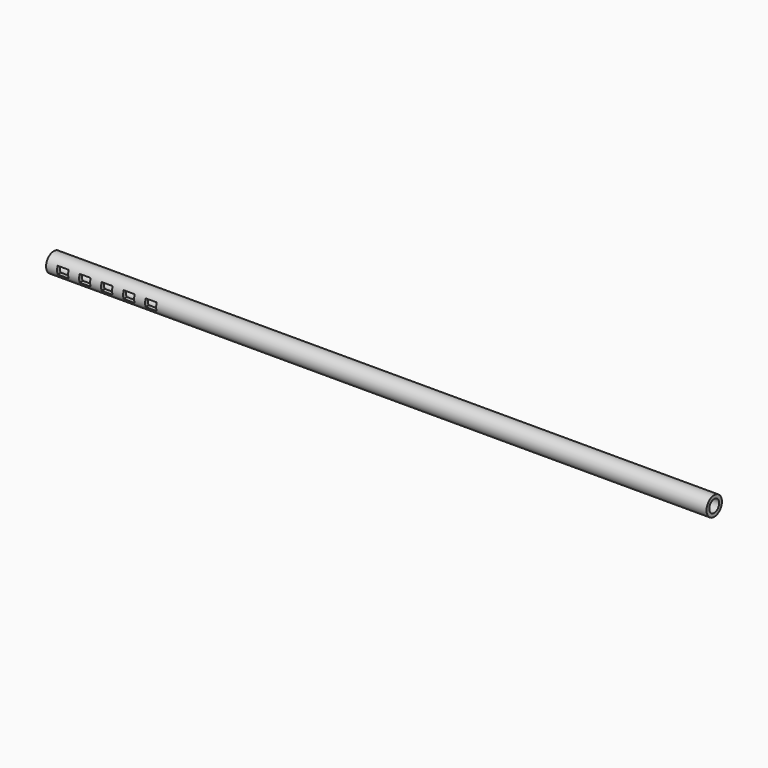
from build123d import *

# Parameters (mm, degrees)
F0_R          = 4.445
F0_R_2        = 2.8448
F1_DEPTH      = 12.7
F2_DEPTH      = 304.8
F4_DEPTH      = 25.4
F4_DEPTH_BACK = 25.4


with BuildPart() as f1:
    # F0 (on Right) → F1 (new body)
    with BuildSketch(Plane.YZ):
        Circle(F0_R)
        Circle(F0_R_2, mode=Mode.SUBTRACT)
    extrude(amount=-F1_DEPTH)

    # F0 (on Right) → F2 (join)
    with BuildSketch(Plane.YZ):
        Circle(F0_R)
        Circle(F0_R_2, mode=Mode.SUBTRACT)
    extrude(amount=-F2_DEPTH)

    # F3 (on Front) → F4 (cut, two sides)
    with BuildSketch(Plane.XZ) as f4_sk:
        Polygon((-253.9987727039, -0.0183600185), (-259.0788954335, -0.0148181376), (-259.0788954335, -1.7928185265), (-254.0000123471, -1.7963595863), align=None)
        Polygon((-259.0788954335, 1.7631822513), (-259.0788954335, -0.0148181376), (-253.9987727039, -0.0183600185), (-253.9975330607, 1.7596395494), align=None)
        Polygon((-269.2391408927, 1.7702659267), (-269.2391408927, -0.0077343758), (-264.1590181631, -0.0112762567), (-264.1590181631, 1.766724089), align=None)
        Polygon((-264.1590181631, -0.0112762567), (-269.2391408927, -0.0077343758), (-269.2391408927, -1.7857346783), (-264.1590181631, -1.7892766024), align=None)
        Polygon((-279.3993863519, 1.7773496021), (-279.3993863519, -0.000650614), (-274.3192636223, -0.0041924949), (-274.3192636223, 1.7738077644), align=None)
        Polygon((-274.3192636223, -0.0041924949), (-279.3993863519, -0.000650614), (-279.3993863519, -1.7786508301), (-274.3192636223, -1.7821927542), align=None)
        Polygon((-284.4795090815, 0.0028912669), (-289.5596318112, 0.0064331478), (-289.5608714541, -1.7715661175), (-284.4807487246, -1.7751080416), align=None)
        Polygon((-289.5583921682, 1.7844324132), (-289.5596318112, 0.0064331478), (-284.4795090815, 0.0028912669), (-284.4782694385, 1.7808905755), align=None)
        Polygon((-294.6397545408, 0.0099750287), (-299.7198772704, 0.0135169096), (-299.7198772704, -1.7644831336), (-294.6409941837, -1.7680241934), align=None)
        Polygon((-299.7198772704, 1.7915169528), (-299.7198772704, 0.0135169096), (-294.6397545408, 0.0099750287), (-294.6385148978, 1.7879742509), align=None)
    extrude(amount=-F4_DEPTH, mode=Mode.SUBTRACT)
    extrude(f4_sk.sketch, amount=F4_DEPTH_BACK, mode=Mode.SUBTRACT)


solid = f1.part
